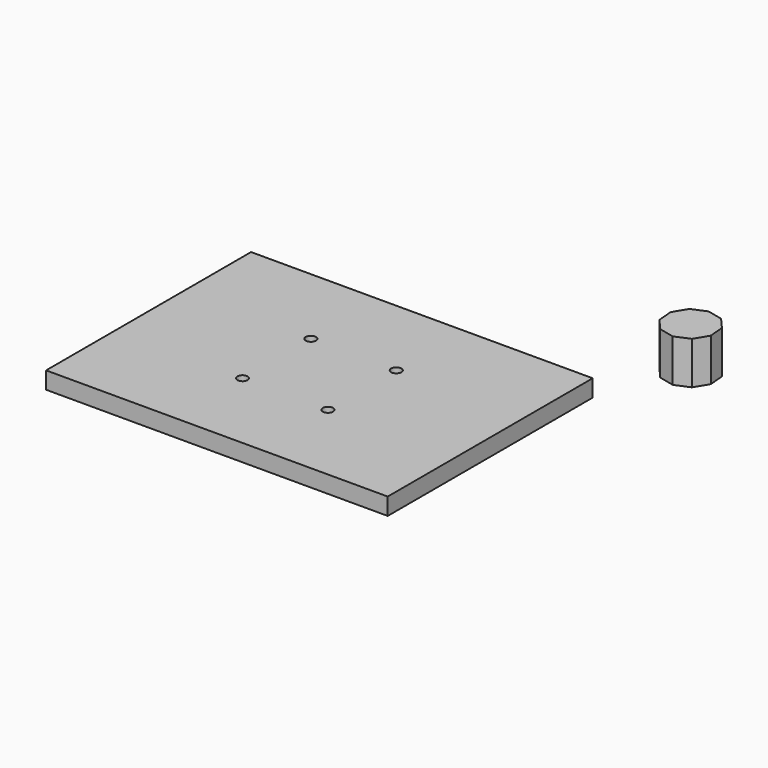
from build123d import *

# Parameters (mm, degrees)
F0_W     = 200
F0_H     = 150
F1_DEPTH = 10
F3_D     = 6
F5_DEPTH = 25


with BuildPart() as f1:
    # F0 (on Top) → F1 (new body)
    with BuildSketch(Plane.XY):
        with Locations((-100, -75)):
            Rectangle(F0_W, F0_H)
    extrude(amount=F1_DEPTH)

    # F3 (through all)
    with Locations(Plane.XY.offset(10)):
        with Locations((-125, -50), (-75, -50), (-75, -100), (-125, -100)):
            Hole(F3_D / 2)


with BuildPart() as f5:
    # F4 (on Top) → F5 (new body)
    with BuildSketch(Plane.XY):
        Polygon((11.712731, 34.78662), (20.646203, 32.722555), (29.086761, 36.303655), (33.810398, 44.16206), (33.012846, 53.296128), (26.998742, 60.216955), (18.06527, 62.28102), (9.624712, 58.69992), (4.901075, 50.841515), (5.698627, 41.707447), align=None)
    extrude(amount=F5_DEPTH)


solid = Compound([f1.part, f5.part])
